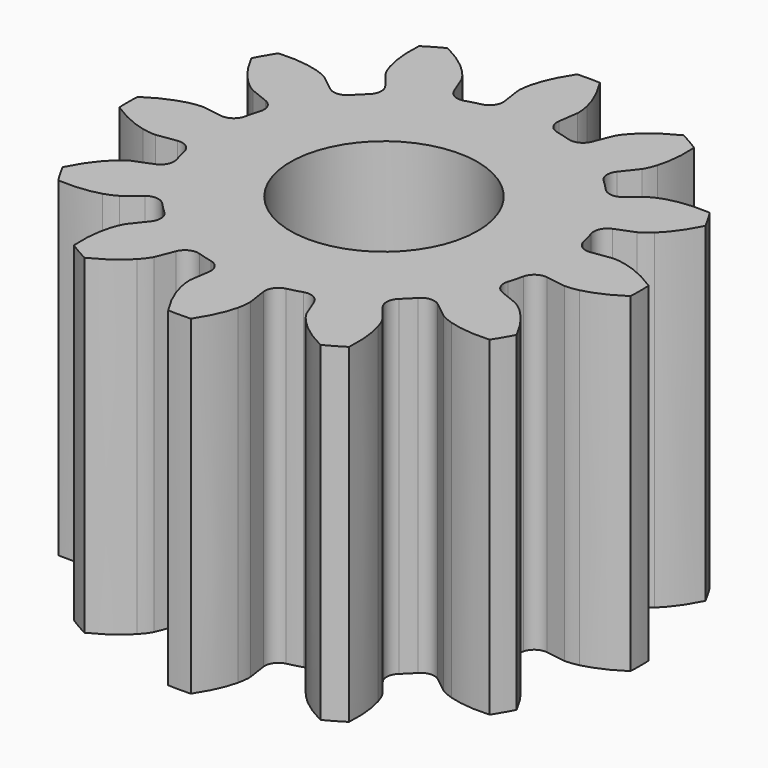
from build123d import *

# Parameters (mm, degrees)
PAD_DEPTH    = 15
SKETCH_R     = 4.25
POCKET_DEPTH = 15


with BuildPart() as part:
    # InvoluteGear → Pad (new body)
    with BuildSketch(Plane.XY):
        with BuildLine():
            Line((8.394667, -1.232725), (9.286418, -1.362303))
            add(Edge.make_bspline(
                [(9.286418, -1.362303), (9.355065, -1.367191), (9.561164, -1.371757), (9.907647, -1.292868)],
                knots=[0, 0, 0, 0, 1, 1, 1, 1], degree=3))
            add(Edge.make_bspline(
                [(9.907647, -1.292868), (10.320076, -1.196544), (10.907346, -0.982654), (11.610892, -0.514196)],
                knots=[0, 0, 0, 0, 1, 1, 1, 1], degree=3))
            ThreePointArc((11.610892, -0.514196), (11.622275, 0), (11.610892, 0.514196))
            add(Edge.make_bspline(
                [(11.610892, 0.514196), (10.907346, 0.982654), (10.320076, 1.196544), (9.907647, 1.292868)],
                knots=[0, 0, 0, 0, 1, 1, 1, 1], degree=3))
            add(Edge.make_bspline(
                [(9.907647, 1.292868), (9.561164, 1.371757), (9.355065, 1.367191), (9.286418, 1.362303)],
                knots=[0, 0, 0, 0, 1, 1, 1, 1], degree=3))
            Line((9.286418, 1.362303), (8.394667, 1.232725))
            ThreePointArc((8.394667, 1.232725), (7.951843, 1.335458), (7.696934, 1.711849))
            ThreePointArc((7.696934, 1.711849), (7.616325, 2.040788), (7.521665, 2.365962))
            ThreePointArc((7.521665, 2.365962), (7.554227, 2.81938), (7.886357, 3.129763))
            Line((7.886357, 3.129763), (8.723425, 3.46342))
            add(Edge.make_bspline(
                [(8.723425, 3.46342), (8.785319, 3.493511), (8.96609, 3.592606), (9.226708, 3.834167)],
                knots=[0, 0, 0, 0, 1, 1, 1, 1], degree=3))
            add(Edge.make_bspline(
                [(9.226708, 3.834167), (9.53572, 4.1238), (9.937365, 4.602669), (10.312426, 5.36014)],
                knots=[0, 0, 0, 0, 1, 1, 1, 1], degree=3))
            ThreePointArc((10.312426, 5.36014), (10.065185, 5.811137), (9.79823, 6.250753))
            add(Edge.make_bspline(
                [(9.79823, 6.250753), (8.954711, 6.304676), (8.339176, 6.196276), (7.93384, 6.07348)],
                knots=[0, 0, 0, 0, 1, 1, 1, 1], degree=3))
            add(Edge.make_bspline(
                [(7.93384, 6.07348), (7.594333, 5.968559), (7.418129, 5.861555), (7.361122, 5.822998)],
                knots=[0, 0, 0, 0, 1, 1, 1, 1], degree=3))
            Line((7.361122, 5.822998), (6.653633, 5.264904))
            ThreePointArc((6.653633, 5.264904), (6.218768, 5.132462), (5.809816, 5.330972))
            ThreePointArc((5.809816, 5.330972), (5.575537, 5.575537), (5.330972, 5.809816))
            ThreePointArc((5.330972, 5.809816), (5.132462, 6.218768), (5.264904, 6.653633))
            Line((5.264904, 6.653633), (5.822998, 7.361122))
            add(Edge.make_bspline(
                [(5.822998, 7.361122), (5.861555, 7.418129), (5.968559, 7.594333), (6.07348, 7.93384)],
                knots=[0, 0, 0, 0, 1, 1, 1, 1], degree=3))
            add(Edge.make_bspline(
                [(6.07348, 7.93384), (6.196276, 8.339176), (6.304676, 8.954711), (6.250753, 9.79823)],
                knots=[0, 0, 0, 0, 1, 1, 1, 1], degree=3))
            ThreePointArc((6.250753, 9.79823), (5.811137, 10.065185), (5.36014, 10.312426))
            add(Edge.make_bspline(
                [(5.36014, 10.312426), (4.602669, 9.937365), (4.1238, 9.53572), (3.834167, 9.226708)],
                knots=[0, 0, 0, 0, 1, 1, 1, 1], degree=3))
            add(Edge.make_bspline(
                [(3.834167, 9.226708), (3.592606, 8.96609), (3.493511, 8.785319), (3.46342, 8.723425)],
                knots=[0, 0, 0, 0, 1, 1, 1, 1], degree=3))
            Line((3.46342, 8.723425), (3.129763, 7.886357))
            ThreePointArc((3.129763, 7.886357), (2.81938, 7.554227), (2.365962, 7.521665))
            ThreePointArc((2.365962, 7.521665), (2.040788, 7.616325), (1.711849, 7.696934))
            ThreePointArc((1.711849, 7.696934), (1.335458, 7.951843), (1.232725, 8.394667))
            Line((1.232725, 8.394667), (1.362303, 9.286418))
            add(Edge.make_bspline(
                [(1.362303, 9.286418), (1.367191, 9.355065), (1.371757, 9.561164), (1.292868, 9.907647)],
                knots=[0, 0, 0, 0, 1, 1, 1, 1], degree=3))
            add(Edge.make_bspline(
                [(1.292868, 9.907647), (1.196544, 10.320076), (0.982654, 10.907346), (0.514196, 11.610892)],
                knots=[0, 0, 0, 0, 1, 1, 1, 1], degree=3))
            ThreePointArc((0.514196, 11.610892), (0, 11.622275), (-0.514196, 11.610892))
            add(Edge.make_bspline(
                [(-0.514196, 11.610892), (-0.982654, 10.907346), (-1.196544, 10.320076), (-1.292868, 9.907647)],
                knots=[0, 0, 0, 0, 1, 1, 1, 1], degree=3))
            add(Edge.make_bspline(
                [(-1.292868, 9.907647), (-1.371757, 9.561164), (-1.367191, 9.355065), (-1.362303, 9.286418)],
                knots=[0, 0, 0, 0, 1, 1, 1, 1], degree=3))
            Line((-1.362303, 9.286418), (-1.232725, 8.394667))
            ThreePointArc((-1.232725, 8.394667), (-1.335458, 7.951843), (-1.711849, 7.696934))
            ThreePointArc((-1.711849, 7.696934), (-2.040788, 7.616325), (-2.365962, 7.521665))
            ThreePointArc((-2.365962, 7.521665), (-2.81938, 7.554227), (-3.129763, 7.886357))
            Line((-3.129763, 7.886357), (-3.46342, 8.723425))
            add(Edge.make_bspline(
                [(-3.46342, 8.723425), (-3.493511, 8.785319), (-3.592606, 8.96609), (-3.834167, 9.226708)],
                knots=[0, 0, 0, 0, 1, 1, 1, 1], degree=3))
            add(Edge.make_bspline(
                [(-3.834167, 9.226708), (-4.1238, 9.53572), (-4.602669, 9.937365), (-5.36014, 10.312426)],
                knots=[0, 0, 0, 0, 1, 1, 1, 1], degree=3))
            ThreePointArc((-5.36014, 10.312426), (-5.811137, 10.065185), (-6.250753, 9.79823))
            add(Edge.make_bspline(
                [(-6.250753, 9.79823), (-6.304676, 8.954711), (-6.196276, 8.339176), (-6.07348, 7.93384)],
                knots=[0, 0, 0, 0, 1, 1, 1, 1], degree=3))
            add(Edge.make_bspline(
                [(-6.07348, 7.93384), (-5.968559, 7.594333), (-5.861555, 7.418129), (-5.822998, 7.361122)],
                knots=[0, 0, 0, 0, 1, 1, 1, 1], degree=3))
            Line((-5.822998, 7.361122), (-5.264904, 6.653633))
            ThreePointArc((-5.264904, 6.653633), (-5.132462, 6.218768), (-5.330972, 5.809816))
            ThreePointArc((-5.330972, 5.809816), (-5.575537, 5.575537), (-5.809816, 5.330972))
            ThreePointArc((-5.809816, 5.330972), (-6.218768, 5.132462), (-6.653633, 5.264904))
            Line((-6.653633, 5.264904), (-7.361122, 5.822998))
            add(Edge.make_bspline(
                [(-7.361122, 5.822998), (-7.418129, 5.861555), (-7.594333, 5.968559), (-7.93384, 6.07348)],
                knots=[0, 0, 0, 0, 1, 1, 1, 1], degree=3))
            add(Edge.make_bspline(
                [(-7.93384, 6.07348), (-8.339176, 6.196276), (-8.954711, 6.304676), (-9.79823, 6.250753)],
                knots=[0, 0, 0, 0, 1, 1, 1, 1], degree=3))
            ThreePointArc((-9.79823, 6.250753), (-10.065185, 5.811137), (-10.312426, 5.36014))
            add(Edge.make_bspline(
                [(-10.312426, 5.36014), (-9.937365, 4.602669), (-9.53572, 4.1238), (-9.226708, 3.834167)],
                knots=[0, 0, 0, 0, 1, 1, 1, 1], degree=3))
            add(Edge.make_bspline(
                [(-9.226708, 3.834167), (-8.96609, 3.592606), (-8.785319, 3.493511), (-8.723425, 3.46342)],
                knots=[0, 0, 0, 0, 1, 1, 1, 1], degree=3))
            Line((-8.723425, 3.46342), (-7.886357, 3.129763))
            ThreePointArc((-7.886357, 3.129763), (-7.554227, 2.81938), (-7.521665, 2.365962))
            ThreePointArc((-7.521665, 2.365962), (-7.616325, 2.040788), (-7.696934, 1.711849))
            ThreePointArc((-7.696934, 1.711849), (-7.951843, 1.335458), (-8.394667, 1.232725))
            Line((-8.394667, 1.232725), (-9.286418, 1.362303))
            add(Edge.make_bspline(
                [(-9.286418, 1.362303), (-9.355065, 1.367191), (-9.561164, 1.371757), (-9.907647, 1.292868)],
                knots=[0, 0, 0, 0, 1, 1, 1, 1], degree=3))
            add(Edge.make_bspline(
                [(-9.907647, 1.292868), (-10.320076, 1.196544), (-10.907346, 0.982654), (-11.610892, 0.514196)],
                knots=[0, 0, 0, 0, 1, 1, 1, 1], degree=3))
            ThreePointArc((-11.610892, 0.514196), (-11.622275, 0), (-11.610892, -0.514196))
            add(Edge.make_bspline(
                [(-11.610892, -0.514196), (-10.907346, -0.982654), (-10.320076, -1.196544), (-9.907647, -1.292868)],
                knots=[0, 0, 0, 0, 1, 1, 1, 1], degree=3))
            add(Edge.make_bspline(
                [(-9.907647, -1.292868), (-9.561164, -1.371757), (-9.355065, -1.367191), (-9.286418, -1.362303)],
                knots=[0, 0, 0, 0, 1, 1, 1, 1], degree=3))
            Line((-9.286418, -1.362303), (-8.394667, -1.232725))
            ThreePointArc((-8.394667, -1.232725), (-7.951843, -1.335458), (-7.696934, -1.711849))
            ThreePointArc((-7.696934, -1.711849), (-7.616325, -2.040788), (-7.521665, -2.365962))
            ThreePointArc((-7.521665, -2.365962), (-7.554227, -2.81938), (-7.886357, -3.129763))
            Line((-7.886357, -3.129763), (-8.723425, -3.46342))
            add(Edge.make_bspline(
                [(-8.723425, -3.46342), (-8.785319, -3.493511), (-8.96609, -3.592606), (-9.226708, -3.834167)],
                knots=[0, 0, 0, 0, 1, 1, 1, 1], degree=3))
            add(Edge.make_bspline(
                [(-9.226708, -3.834167), (-9.53572, -4.1238), (-9.937365, -4.602669), (-10.312426, -5.36014)],
                knots=[0, 0, 0, 0, 1, 1, 1, 1], degree=3))
            ThreePointArc((-10.312426, -5.36014), (-10.065185, -5.811137), (-9.79823, -6.250753))
            add(Edge.make_bspline(
                [(-9.79823, -6.250753), (-8.954711, -6.304676), (-8.339176, -6.196276), (-7.93384, -6.07348)],
                knots=[0, 0, 0, 0, 1, 1, 1, 1], degree=3))
            add(Edge.make_bspline(
                [(-7.93384, -6.07348), (-7.594333, -5.968559), (-7.418129, -5.861555), (-7.361122, -5.822998)],
                knots=[0, 0, 0, 0, 1, 1, 1, 1], degree=3))
            Line((-7.361122, -5.822998), (-6.653633, -5.264904))
            ThreePointArc((-6.653633, -5.264904), (-6.218768, -5.132462), (-5.809816, -5.330972))
            ThreePointArc((-5.809816, -5.330972), (-5.575537, -5.575537), (-5.330972, -5.809816))
            ThreePointArc((-5.330972, -5.809816), (-5.132462, -6.218768), (-5.264904, -6.653633))
            Line((-5.264904, -6.653633), (-5.822998, -7.361122))
            add(Edge.make_bspline(
                [(-5.822998, -7.361122), (-5.861555, -7.418129), (-5.968559, -7.594333), (-6.07348, -7.93384)],
                knots=[0, 0, 0, 0, 1, 1, 1, 1], degree=3))
            add(Edge.make_bspline(
                [(-6.07348, -7.93384), (-6.196276, -8.339176), (-6.304676, -8.954711), (-6.250753, -9.79823)],
                knots=[0, 0, 0, 0, 1, 1, 1, 1], degree=3))
            ThreePointArc((-6.250753, -9.79823), (-5.811137, -10.065185), (-5.36014, -10.312426))
            add(Edge.make_bspline(
                [(-5.36014, -10.312426), (-4.602669, -9.937365), (-4.1238, -9.53572), (-3.834167, -9.226708)],
                knots=[0, 0, 0, 0, 1, 1, 1, 1], degree=3))
            add(Edge.make_bspline(
                [(-3.834167, -9.226708), (-3.592606, -8.96609), (-3.493511, -8.785319), (-3.46342, -8.723425)],
                knots=[0, 0, 0, 0, 1, 1, 1, 1], degree=3))
            Line((-3.46342, -8.723425), (-3.129763, -7.886357))
            ThreePointArc((-3.129763, -7.886357), (-2.81938, -7.554227), (-2.365962, -7.521665))
            ThreePointArc((-2.365962, -7.521665), (-2.040788, -7.616325), (-1.711849, -7.696934))
            ThreePointArc((-1.711849, -7.696934), (-1.335458, -7.951843), (-1.232725, -8.394667))
            Line((-1.232725, -8.394667), (-1.362303, -9.286418))
            add(Edge.make_bspline(
                [(-1.362303, -9.286418), (-1.367191, -9.355065), (-1.371757, -9.561164), (-1.292868, -9.907647)],
                knots=[0, 0, 0, 0, 1, 1, 1, 1], degree=3))
            add(Edge.make_bspline(
                [(-1.292868, -9.907647), (-1.196544, -10.320076), (-0.982654, -10.907346), (-0.514196, -11.610892)],
                knots=[0, 0, 0, 0, 1, 1, 1, 1], degree=3))
            ThreePointArc((-0.514196, -11.610892), (0, -11.622275), (0.514196, -11.610892))
            add(Edge.make_bspline(
                [(0.514196, -11.610892), (0.982654, -10.907346), (1.196544, -10.320076), (1.292868, -9.907647)],
                knots=[0, 0, 0, 0, 1, 1, 1, 1], degree=3))
            add(Edge.make_bspline(
                [(1.292868, -9.907647), (1.371757, -9.561164), (1.367191, -9.355065), (1.362303, -9.286418)],
                knots=[0, 0, 0, 0, 1, 1, 1, 1], degree=3))
            Line((1.362303, -9.286418), (1.232725, -8.394667))
            ThreePointArc((1.232725, -8.394667), (1.335458, -7.951843), (1.711849, -7.696934))
            ThreePointArc((1.711849, -7.696934), (2.040788, -7.616325), (2.365962, -7.521665))
            ThreePointArc((2.365962, -7.521665), (2.81938, -7.554227), (3.129763, -7.886357))
            Line((3.129763, -7.886357), (3.46342, -8.723425))
            add(Edge.make_bspline(
                [(3.46342, -8.723425), (3.493511, -8.785319), (3.592606, -8.96609), (3.834167, -9.226708)],
                knots=[0, 0, 0, 0, 1, 1, 1, 1], degree=3))
            add(Edge.make_bspline(
                [(3.834167, -9.226708), (4.1238, -9.53572), (4.602669, -9.937365), (5.36014, -10.312426)],
                knots=[0, 0, 0, 0, 1, 1, 1, 1], degree=3))
            ThreePointArc((5.36014, -10.312426), (5.811137, -10.065185), (6.250753, -9.79823))
            add(Edge.make_bspline(
                [(6.250753, -9.79823), (6.304676, -8.954711), (6.196276, -8.339176), (6.07348, -7.93384)],
                knots=[0, 0, 0, 0, 1, 1, 1, 1], degree=3))
            add(Edge.make_bspline(
                [(6.07348, -7.93384), (5.968559, -7.594333), (5.861555, -7.418129), (5.822998, -7.361122)],
                knots=[0, 0, 0, 0, 1, 1, 1, 1], degree=3))
            Line((5.822998, -7.361122), (5.264904, -6.653633))
            ThreePointArc((5.264904, -6.653633), (5.132462, -6.218768), (5.330972, -5.809816))
            ThreePointArc((5.330972, -5.809816), (5.575537, -5.575537), (5.809816, -5.330972))
            ThreePointArc((5.809816, -5.330972), (6.218768, -5.132462), (6.653633, -5.264904))
            Line((6.653633, -5.264904), (7.361122, -5.822998))
            add(Edge.make_bspline(
                [(7.361122, -5.822998), (7.418129, -5.861555), (7.594333, -5.968559), (7.93384, -6.07348)],
                knots=[0, 0, 0, 0, 1, 1, 1, 1], degree=3))
            add(Edge.make_bspline(
                [(7.93384, -6.07348), (8.339176, -6.196276), (8.954711, -6.304676), (9.79823, -6.250753)],
                knots=[0, 0, 0, 0, 1, 1, 1, 1], degree=3))
            ThreePointArc((9.79823, -6.250753), (10.065185, -5.811137), (10.312426, -5.36014))
            add(Edge.make_bspline(
                [(10.312426, -5.36014), (9.937365, -4.602669), (9.53572, -4.1238), (9.226708, -3.834167)],
                knots=[0, 0, 0, 0, 1, 1, 1, 1], degree=3))
            add(Edge.make_bspline(
                [(9.226708, -3.834167), (8.96609, -3.592606), (8.785319, -3.493511), (8.723425, -3.46342)],
                knots=[0, 0, 0, 0, 1, 1, 1, 1], degree=3))
            Line((8.723425, -3.46342), (7.886357, -3.129763))
            ThreePointArc((7.886357, -3.129763), (7.554227, -2.81938), (7.521665, -2.365962))
            ThreePointArc((7.521665, -2.365962), (7.616325, -2.040788), (7.696934, -1.711849))
            ThreePointArc((7.696934, -1.711849), (7.951843, -1.335458), (8.394667, -1.232725))
        make_face()
    extrude(amount=PAD_DEPTH)

    # Sketch (on Face122 of Pad) → Pocket (cut)
    with BuildSketch(Plane.XY.offset(15)):
        Circle(SKETCH_R)
    extrude(amount=-POCKET_DEPTH, mode=Mode.SUBTRACT)


solid = part.part
